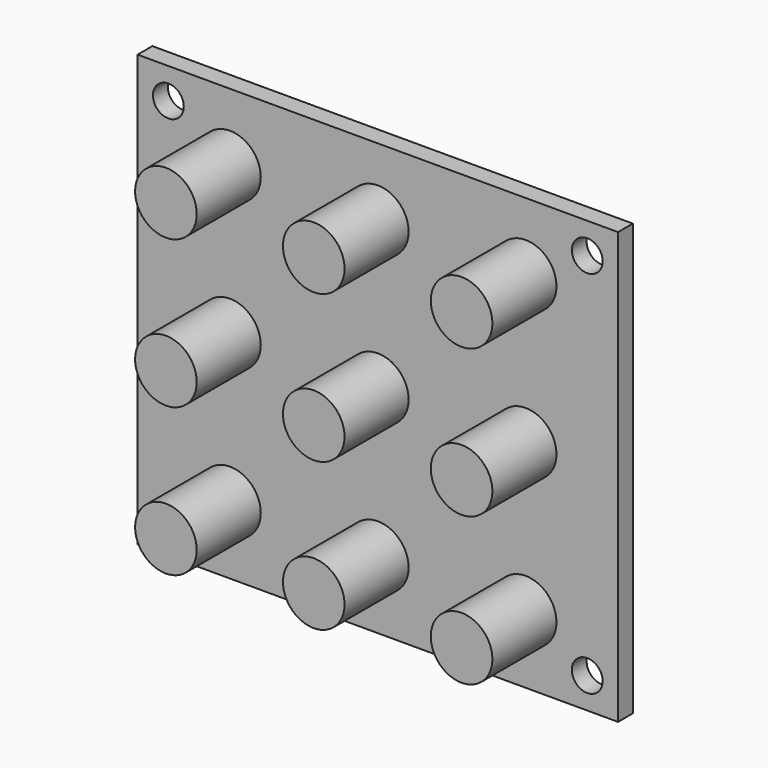
from build123d import *

# Parameters (mm, degrees)
F0_W     = 39
F0_H     = 35
F0_R     = 1.25
F0_R_2   = 2.5
F1_DEPTH = 1.5
F2_DEPTH = 8


with BuildPart() as f1:
    # F0 (on Front) → F1 (new body)
    with BuildSketch(Plane.XZ):
        with Locations((-21.04439, 36.519036)):
            Rectangle(F0_W, F0_H)
        with Locations((-38.04439, 21.519036)):
            Circle(F0_R, mode=Mode.SUBTRACT)
        with Locations((-33.04439, 24.519036)):
            Circle(F0_R_2, mode=Mode.SUBTRACT)
        with Locations((-21.04439, 24.519036)):
            Circle(F0_R_2, mode=Mode.SUBTRACT)
        with Locations((-4.04439, 21.519036)):
            Circle(F0_R, mode=Mode.SUBTRACT)
        with Locations((-9.04439, 24.519036)):
            Circle(F0_R_2, mode=Mode.SUBTRACT)
        with Locations((-33.04439, 36.519036)):
            Circle(F0_R_2, mode=Mode.SUBTRACT)
        with Locations((-21.04439, 36.519036)):
            Circle(F0_R_2, mode=Mode.SUBTRACT)
        with Locations((-33.04439, 48.519036)):
            Circle(F0_R_2, mode=Mode.SUBTRACT)
        with Locations((-38.04439, 51.519036)):
            Circle(F0_R, mode=Mode.SUBTRACT)
        with Locations((-21.04439, 48.519036)):
            Circle(F0_R_2, mode=Mode.SUBTRACT)
        with Locations((-9.04439, 36.519036)):
            Circle(F0_R_2, mode=Mode.SUBTRACT)
        with Locations((-9.04439, 48.519036)):
            Circle(F0_R_2, mode=Mode.SUBTRACT)
        with Locations((-4.04439, 51.519036)):
            Circle(F0_R, mode=Mode.SUBTRACT)
    extrude(amount=F1_DEPTH)

    # F0 (on Front) → F2 (join)
    with BuildSketch(Plane.XZ):
        with Locations((-33.04439, 48.519036)):
            Circle(F0_R_2)
        with Locations((-21.04439, 48.519036)):
            Circle(F0_R_2)
        with Locations((-9.04439, 48.519036)):
            Circle(F0_R_2)
        with Locations((-33.04439, 36.519036)):
            Circle(F0_R_2)
        with Locations((-21.04439, 36.519036)):
            Circle(F0_R_2)
        with Locations((-9.04439, 36.519036)):
            Circle(F0_R_2)
        with Locations((-33.04439, 24.519036)):
            Circle(F0_R_2)
        with Locations((-21.04439, 24.519036)):
            Circle(F0_R_2)
        with Locations((-9.04439, 24.519036)):
            Circle(F0_R_2)
    extrude(amount=F2_DEPTH)


solid = f1.part
